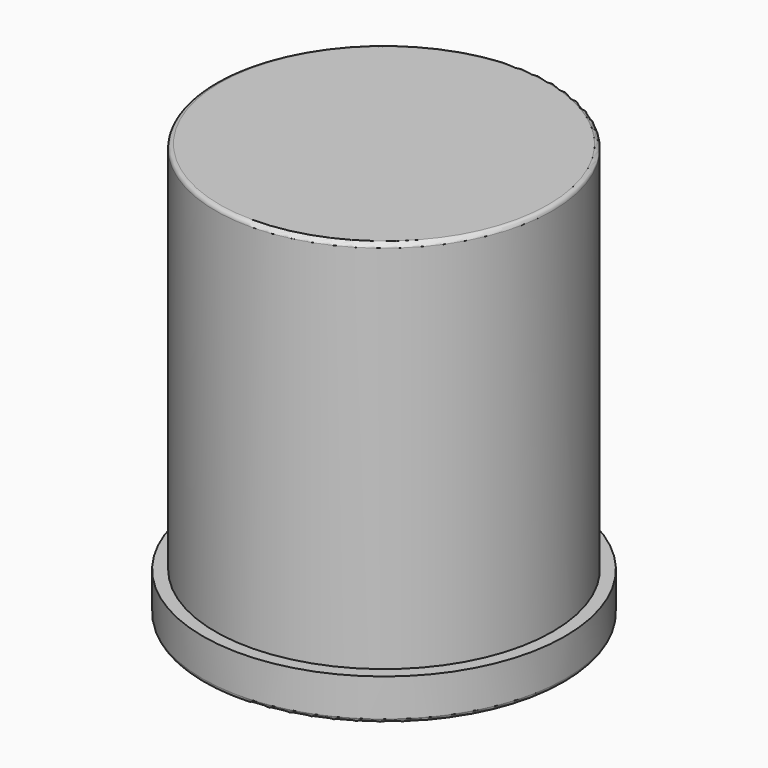
from build123d import *

# Parameters (mm, degrees)
F0_R     = 43.5
F0_R_2   = 38.5
F1_DEPTH = 10
F2_R     = 40.5
F2_R_2   = 38.5
F3_DEPTH = 90
F4_R     = 38.5
F5_DEPTH = 2
F6_R     = 1


with BuildPart() as f1:
    # F0 (on Top) → F1 (new body)
    with BuildSketch(Plane.XY):
        Circle(F0_R)
        Circle(F0_R_2, mode=Mode.SUBTRACT)
    extrude(amount=F1_DEPTH)

    # F2 (on face) → F3 (join)
    with BuildSketch(Plane.XY.offset(10)):
        Circle(F2_R)
        Circle(F2_R_2, mode=Mode.SUBTRACT)
    extrude(amount=F3_DEPTH)

    # F4 (on face) → F5 (join)
    with BuildSketch(Plane.XY.offset(100)):
        Circle(F4_R)
    extrude(amount=-F5_DEPTH)

    # F6
    f6_edges = [f1.edges().sort_by_distance(p)[0] for p in [
        (-43.5, 0, 0),
        (-38.5, 0, 0),
        (-40.5, 0, 100),
        (-38.5, 0, 98),
    ]]
    fillet(f6_edges, radius=F6_R)


solid = f1.part
